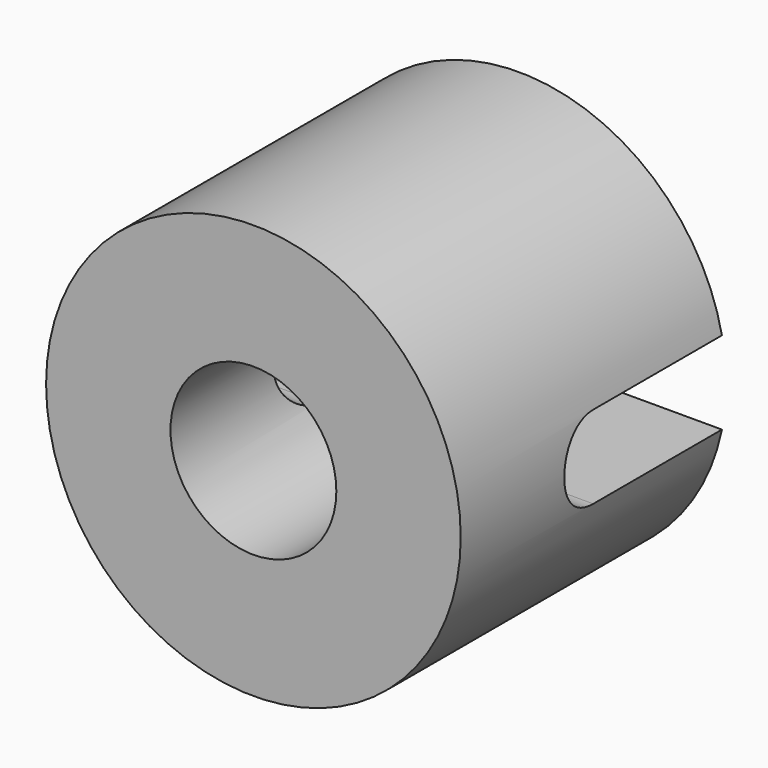
from build123d import *

# Parameters (mm, degrees)
F0_R     = 15.875
F0_R_2   = 6.35
F1_DEPTH = 25.4
F2_R     = 3.175
F3_DEPTH = 25.4
F5_DEPTH = 25.4
F6_DEPTH = 25.4


with BuildPart() as f1:
    # F0 (on Front) → F1 (new body)
    with BuildSketch(Plane.XZ):
        Circle(F0_R)
        Circle(F0_R_2, mode=Mode.SUBTRACT)
    extrude(amount=F1_DEPTH)

    # F2 (on Right) → F3 (cut)
    with BuildSketch(Plane.YZ):
        Circle(F2_R)
    extrude(amount=-F3_DEPTH, mode=Mode.SUBTRACT)

    # F4 (on Right) → F5 (cut)
    with BuildSketch(Plane.YZ):
        with BuildLine():
            Line((0, 3.175), (-12.31459, 3.175))
            ThreePointArc((-12.31459, 3.175), (-15.48959, 0), (-12.31459, -3.175))
            Line((-12.31459, -3.175), (0, -3.175))
            Line((0, -3.175), (0, 3.175))
        make_face()
    extrude(amount=F5_DEPTH, mode=Mode.SUBTRACT)

    # F4 (on Right) → F6 (cut)
    with BuildSketch(Plane.YZ):
        with BuildLine():
            Line((0, 3.175), (-12.31459, 3.175))
            ThreePointArc((-12.31459, 3.175), (-15.48959, 0), (-12.31459, -3.175))
            Line((-12.31459, -3.175), (0, -3.175))
            Line((0, -3.175), (0, 3.175))
        make_face()
    extrude(amount=-F6_DEPTH, mode=Mode.SUBTRACT)


solid = f1.part
